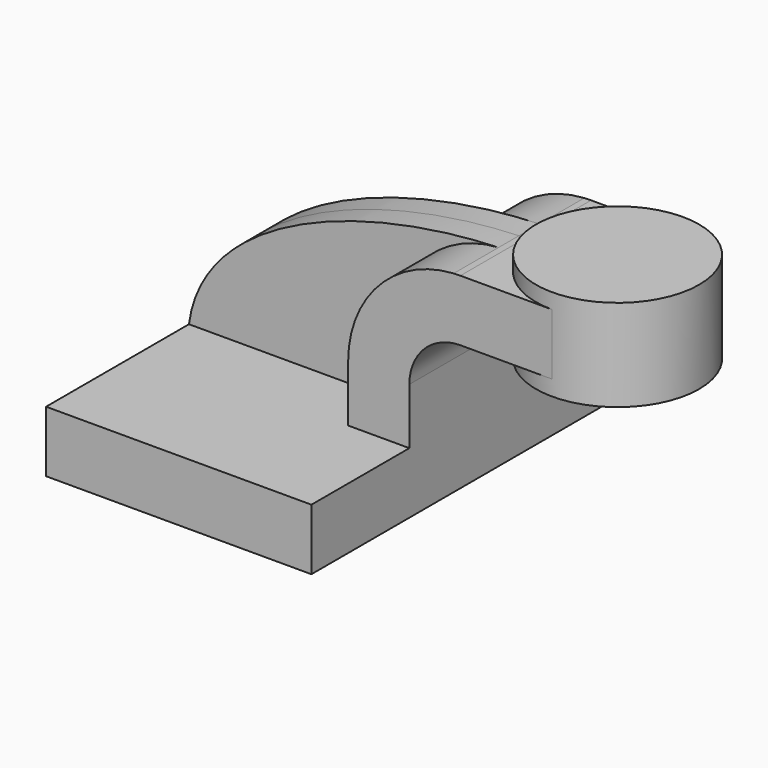
from build123d import *

# Parameters (mm, degrees)
F1_DEPTH = 63.5
F2_W     = 25.4
F2_H     = 19.05
F3_DEPTH = 25.4
F5_DEPTH = 7.9375


with BuildPart() as f1:
    # F0 (on Front) → F1 (new body, symmetric)
    with BuildSketch(Plane.XZ):
        Polygon((-41.275, 9.525), (-41.275, -9.525), (41.275, -9.525), (41.275, 9.525), (22.225, 9.525), align=None)
    extrude(amount=F1_DEPTH, both=True)

    # F2 (on face) + F0 (on Front) → F3 (join, symmetric)
    with BuildSketch(Plane.XZ):
        with Locations((73.025, 52.4002)):
            Rectangle(F2_W, F2_H)
    with BuildSketch(Plane.XZ):
        with BuildLine():
            Line((22.225, 9.525), (41.275, 9.525))
            Line((41.275, 9.525), (41.275, 27.0002))
            ThreePointArc((41.275, 27.0002), (45.9246798487, 38.2255201513), (57.15, 42.8752))
            Line((57.15, 42.8752), (60.325, 42.8752))
            Line((60.325, 42.8752), (60.325, 61.9252))
            Line((60.325, 61.9252), (57.15, 61.9252))
            add(Edge.make_bspline(
                [(55.0536793092, 61.8622289794), (55.7537102916, 61.8873697965), (56.452550575, 61.9083613576), (57.15, 61.9252)],
                knots=[109.7467015362, 109.7467015362, 109.7467015362, 109.7467015362, 111.5045361635, 111.5045361635, 111.5045361635, 111.5045361635], degree=3))
            ThreePointArc((55.0536793092, 61.8622289794), (31.7239343869, 50.9432744149), (22.225, 27.0002))
            Line((22.225, 27.0002), (22.225, 9.525))
        make_face()
    extrude(amount=F3_DEPTH, both=True)

    # F0 (on Front) → F5 (join, symmetric)
    with BuildSketch(Plane.XZ):
        with BuildLine():
            add(Edge.make_bspline(
                [(-41.275, 9.525), (-36.9974255187, 42.549756512), (11.3487197513, 60.2926150292), (55.0536793092, 61.8622289794)],
                knots=[0, 0, 0, 0, 109.7467015362, 109.7467015362, 109.7467015362, 109.7467015362], degree=3))
            Line((-41.275, 9.525), (22.225, 9.525))
            Line((22.225, 9.525), (22.225, 27.0002))
            ThreePointArc((22.225, 27.0002), (31.7239343869, 50.9432744149), (55.0536793092, 61.8622289794))
        make_face()
    extrude(amount=F5_DEPTH, both=True)

    # F6 (on face) → F7 (revolve)
    with BuildSketch(Plane.XZ):
        Polygon((111.125, 66.675), (85.725, 66.675), (85.725, 61.9252), (85.725, 42.8752), (85.725, 38.1), (111.125, 38.1), align=None)
    revolve(axis=Axis((85.725, 0, 52.3875), (0, 0, 1)))


solid = f1.part
